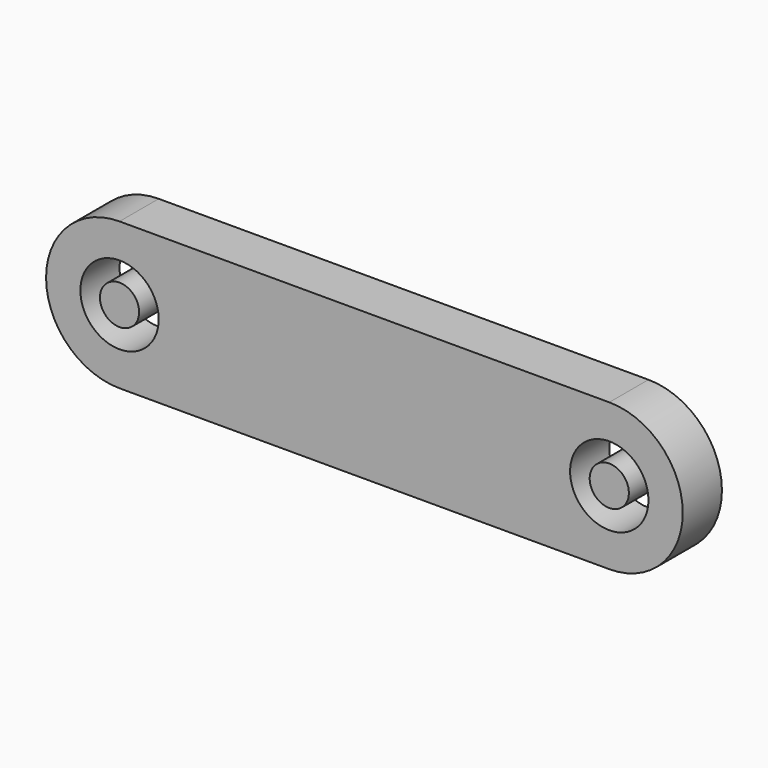
from build123d import *

# Parameters (mm, degrees)
F0_R     = 2
F1_DEPTH = 5
F0_R_2   = 4


with BuildPart() as f1:
    # F0 (on Front) → F1 (new body)
    with BuildSketch(Plane.XZ):
        Circle(F0_R)
    extrude(amount=F1_DEPTH)


with BuildPart() as f1b:
    # F0 (on Front) → F1, piece 2 (new body)
    with BuildSketch(Plane.XZ):
        with Locations((50, 0)):
            Circle(F0_R)
    extrude(amount=F1_DEPTH)


with BuildPart() as f1c:
    # F0 (on Front) → F1, piece 3 (new body)
    with BuildSketch(Plane.XZ):
        with BuildLine():
            Line((50, 7.5), (0, 7.5))
            ThreePointArc((0, 7.5), (-7.5, 0), (0, -7.5))
            Line((0, -7.5), (50, -7.5))
            ThreePointArc((50, -7.5), (57.5, 0), (50, 7.5))
        make_face()
        Circle(F0_R_2, mode=Mode.SUBTRACT)
        with Locations((50, 0)):
            Circle(F0_R_2, mode=Mode.SUBTRACT)
    extrude(amount=F1_DEPTH)


solid = Compound([f1.part, f1b.part, f1c.part])
